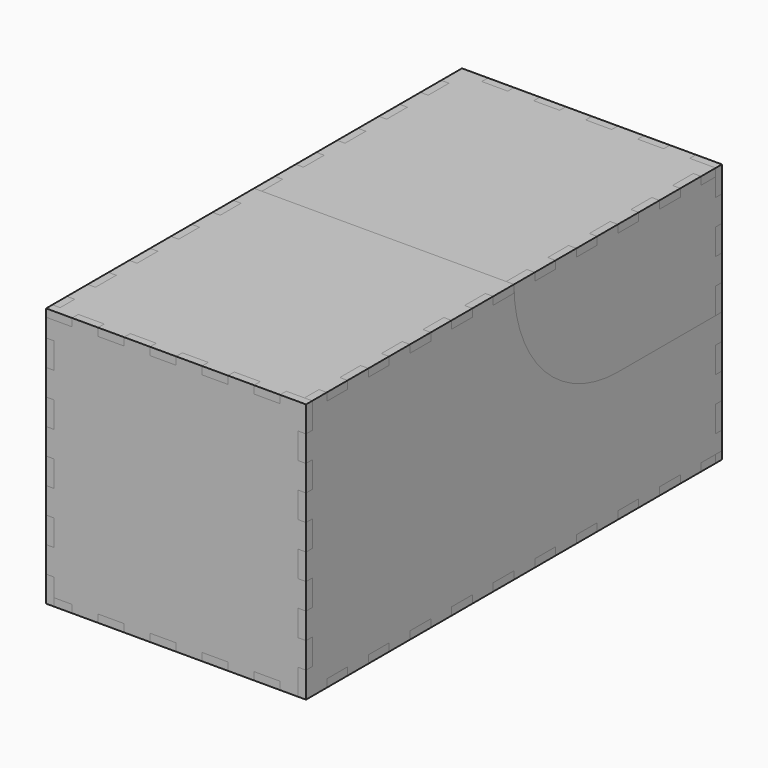
from build123d import *

# Parameters (mm, degrees)
F1_DEPTH  = 3
F2_DEPTH  = 3
F6_DEPTH  = 3
F8_START  = -197
F8_DEPTH  = 3
F9_START  = -197
F9_DEPTH  = 3
F12_W     = 100
F12_H     = 100
F13_DEPTH = 3
F14_DEPTH = 3
F15_START = -97
F15_DEPTH = 3


with BuildPart() as f1:
    # F0 (on Right) → F1 (new body)
    with BuildSketch(Plane.YZ):
        with BuildLine():
            Line((10, 0), (3, 0))
            Line((3, 0), (3, -10))
            Line((3, -10), (0, -10))
            Line((0, -10), (0, -20))
            Line((0, -20), (3, -20))
            Line((3, -20), (3, -30))
            Line((3, -30), (0, -30))
            Line((0, -30), (0, -40))
            Line((0, -40), (3, -40))
            Line((3, -40), (3, -50))
            Line((3, -50), (0, -50))
            Line((0, -50), (0, -60))
            Line((0, -60), (3, -60))
            Line((3, -60), (3, -70))
            Line((3, -70), (0, -70))
            Line((0, -70), (0, -80))
            Line((0, -80), (3, -80))
            Line((3, -80), (3, -90))
            Line((3, -90), (0, -90))
            Line((0, -90), (0, -100))
            Line((0, -100), (10, -100))
            Line((10, -100), (10, -97))
            Line((10, -97), (20, -97))
            Line((20, -97), (20, -100))
            Line((20, -100), (30, -100))
            Line((30, -100), (30, -97))
            Line((30, -97), (40, -97))
            Line((40, -97), (40, -100))
            Line((40, -100), (50, -100))
            Line((50, -100), (50, -97))
            Line((50, -97), (60, -97))
            Line((60, -97), (60, -100))
            Line((60, -100), (70, -100))
            Line((70, -100), (70, -97))
            Line((70, -97), (80, -97))
            Line((80, -97), (80, -100))
            Line((80, -100), (90, -100))
            Line((90, -100), (90, -97))
            Line((90, -97), (100, -97))
            Line((100, -97), (100, -100))
            Line((100, -100), (110, -100))
            Line((110, -100), (110, -97))
            Line((110, -97), (120, -97))
            Line((120, -97), (120, -100))
            Line((120, -100), (130, -100))
            Line((130, -100), (130, -97))
            Line((130, -97), (140, -97))
            Line((140, -97), (140, -100))
            Line((140, -100), (150, -100))
            Line((150, -100), (150, -97))
            Line((150, -97), (160, -97))
            Line((160, -97), (160, -100))
            Line((160, -100), (170, -100))
            Line((170, -100), (170, -97))
            Line((170, -97), (180, -97))
            Line((180, -97), (180, -100))
            Line((180, -100), (190, -100))
            Line((190, -100), (190, -97))
            Line((190, -97), (200, -97))
            Line((200, -97), (200, -90))
            Line((200, -90), (197, -90))
            Line((197, -90), (197, -80))
            Line((197, -80), (200, -80))
            Line((200, -80), (200, -70))
            Line((200, -70), (197, -70))
            Line((197, -70), (197, -60))
            Line((197, -60), (200, -60))
            Line((200, -60), (200, -50))
            Line((200, -50), (197, -50))
            Line((197, -50), (150, -50))
            ThreePointArc((150, -50), (114.6446609407, -35.3553390593), (100, 0))
            Line((100, 0), (100, -3))
            Line((100, -3), (90, -3))
            Line((90, -3), (90, 0))
            Line((90, 0), (80, 0))
            Line((80, 0), (80, -3))
            Line((80, -3), (70, -3))
            Line((70, -3), (70, 0))
            Line((70, 0), (60, 0))
            Line((60, 0), (60, -3))
            Line((60, -3), (50, -3))
            Line((50, -3), (50, 0))
            Line((50, 0), (40, 0))
            Line((40, 0), (40, -3))
            Line((40, -3), (30, -3))
            Line((30, -3), (30, 0))
            Line((30, 0), (20, 0))
            Line((20, 0), (20, -3))
            Line((20, -3), (10, -3))
            Line((10, -3), (10, 0))
        make_face()
    extrude(amount=F1_DEPTH)


with BuildPart() as f2:
    # F0 (on Right) → F2 (new body)
    with BuildSketch(Plane.YZ):
        with BuildLine():
            Line((110, 0), (100, 0))
            ThreePointArc((100, 0), (114.6446609407, -35.3553390593), (150, -50))
            Line((150, -50), (197, -50))
            Line((197, -50), (197, -40))
            Line((197, -40), (200, -40))
            Line((200, -40), (200, -30))
            Line((200, -30), (197, -30))
            Line((197, -30), (197, -20))
            Line((197, -20), (200, -20))
            Line((200, -20), (200, -10))
            Line((200, -10), (197, -10))
            Line((197, -10), (197, -3))
            Line((197, -3), (190, -3))
            Line((190, -3), (190, 0))
            Line((190, 0), (180, 0))
            Line((180, 0), (180, -3))
            Line((180, -3), (170, -3))
            Line((170, -3), (170, 0))
            Line((170, 0), (160, 0))
            Line((160, 0), (160, -3))
            Line((160, -3), (150, -3))
            Line((150, -3), (150, 0))
            Line((150, 0), (140, 0))
            Line((140, 0), (140, -3))
            Line((140, -3), (130, -3))
            Line((130, -3), (130, 0))
            Line((130, 0), (120, 0))
            Line((120, 0), (120, -3))
            Line((120, -3), (110, -3))
            Line((110, -3), (110, 0))
        make_face()
    extrude(amount=F2_DEPTH)


with BuildPart() as f4_1:
    # F4: copy of F1
    add(f1.part.moved(Location((-97, 0, 0))))


with BuildPart() as f5_1:
    # F5: copy of F2
    add(f2.part.moved(Location((-97, 0, 0))))


with BuildPart() as f6:
    # F3 (on Front) → F6 (new body)
    with BuildSketch(Plane.XZ):
        Polygon((3, -50), (3, 0), (-7, 0), (-7, -3), (-17, -3), (-17, 0), (-27, 0), (-27, -3), (-37, -3), (-37, 0), (-47, 0), (-47, -3), (-57, -3), (-57, 0), (-67, 0), (-67, -3), (-77, -3), (-77, 0), (-87, 0), (-87, -3), (-97, -3), (-97, -50), align=None)
        Polygon((3, -100), (3, -50), (-97, -50), (-97, -97), (-87, -97), (-87, -100), (-77, -100), (-77, -97), (-67, -97), (-67, -100), (-57, -100), (-57, -97), (-47, -97), (-47, -100), (-37, -100), (-37, -97), (-27, -97), (-27, -100), (-17, -100), (-17, -97), (-7, -97), (-7, -100), align=None)
    extrude(amount=-F6_DEPTH)

    # F7: cut F4_1, F1
    add(f4_1.part, mode=Mode.SUBTRACT)
    add(f1.part, mode=Mode.SUBTRACT)


with BuildPart() as f8:
    # F3 (on Front) → F8 (new body)
    with BuildSketch(Plane.XZ.offset(F8_START)):
        Polygon((3, -100), (3, -50), (-97, -50), (-97, -97), (-87, -97), (-87, -100), (-77, -100), (-77, -97), (-67, -97), (-67, -100), (-57, -100), (-57, -97), (-47, -97), (-47, -100), (-37, -100), (-37, -97), (-27, -97), (-27, -100), (-17, -100), (-17, -97), (-7, -97), (-7, -100), align=None)
    extrude(amount=-F8_DEPTH)

    # F11: cut F1, F4_1
    add(f1.part, mode=Mode.SUBTRACT)
    add(f4_1.part, mode=Mode.SUBTRACT)


with BuildPart() as f9:
    # F3 (on Front) → F9 (new body)
    with BuildSketch(Plane.XZ.offset(F9_START)):
        Polygon((3, -50), (3, 0), (-7, 0), (-7, -3), (-17, -3), (-17, 0), (-27, 0), (-27, -3), (-37, -3), (-37, 0), (-47, 0), (-47, -3), (-57, -3), (-57, 0), (-67, 0), (-67, -3), (-77, -3), (-77, 0), (-87, 0), (-87, -3), (-97, -3), (-97, -50), align=None)
    extrude(amount=-F9_DEPTH)

    # F10: cut F2, F5_1
    add(f2.part, mode=Mode.SUBTRACT)
    add(f5_1.part, mode=Mode.SUBTRACT)


with BuildPart() as f13:
    # F12 (on Top) → F13 (new body)
    with BuildSketch(Plane.XY):
        with Locations((-47, 50)):
            Rectangle(F12_W, F12_H)
    extrude(amount=-F13_DEPTH)

    # F17: cut F6, F1, F4_1
    add(f6.part, mode=Mode.SUBTRACT)
    add(f1.part, mode=Mode.SUBTRACT)
    add(f4_1.part, mode=Mode.SUBTRACT)


with BuildPart() as f14:
    # F12 (on Top) → F14 (new body)
    with BuildSketch(Plane.XY):
        with Locations((-47, 150)):
            Rectangle(F12_W, F12_H)
    extrude(amount=-F14_DEPTH)

    # F18: cut F2, F9, F5_1
    add(f2.part, mode=Mode.SUBTRACT)
    add(f9.part, mode=Mode.SUBTRACT)
    add(f5_1.part, mode=Mode.SUBTRACT)


with BuildPart() as f15:
    # F12 (on Top) → F15 (new body)
    with BuildSketch(Plane.XY.offset(F15_START)):
        with Locations((-47, 150)):
            Rectangle(F12_W, F12_H)
        with Locations((-47, 50)):
            Rectangle(F12_W, F12_H)
    extrude(amount=-F15_DEPTH)

    # F16: cut F6, F1, F8, F4_1
    add(f6.part, mode=Mode.SUBTRACT)
    add(f1.part, mode=Mode.SUBTRACT)
    add(f8.part, mode=Mode.SUBTRACT)
    add(f4_1.part, mode=Mode.SUBTRACT)


solid = Compound([f1.part, f2.part, f4_1.part, f5_1.part, f6.part, f8.part, f9.part, f13.part, f14.part, f15.part])
